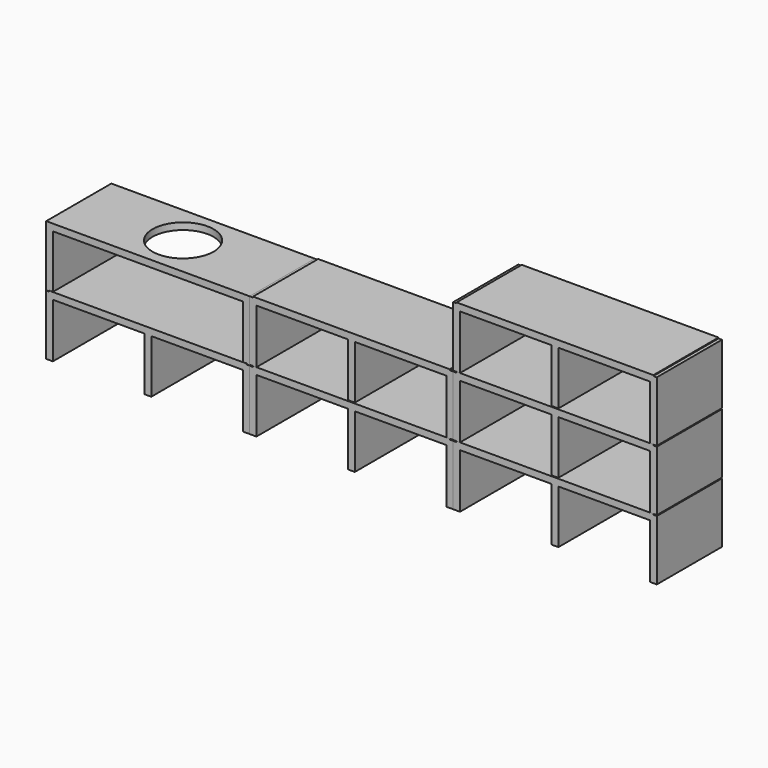
from build123d import *

# Parameters (mm, degrees)
F1_DEPTH  = 609.6
F3_DEPTH  = 609.6
F5_D      = 457.2
F5_DEPTH  = 50.8
F5_TIP    = 137.3567375097
F17_W     = 1524
F17_H     = 1371.6
F18_DEPTH = 6.35
F19_W     = 3048
F19_H     = 914.4
F20_DEPTH = 6.35


with BuildPart() as f1:
    # F0 (on Front) → F1 (new body)
    with BuildSketch(Plane.XZ):
        Polygon((-1974.6954368591, 327.3724169254), (-1974.6954368591, -123.4775830746), (-1923.8954368591, -123.4775830746), (-1923.8954368591, 282.9224169254), (-1238.0954368591, 282.9224169254), (-1238.0954368591, -117.1275830746), (-1187.2954368591, -117.1275830746), (-1187.2954368591, 282.9224169254), (-501.4954368591, 282.9224169254), (-501.4954368591, -123.4775830746), (-450.6954368591, -123.4775830746), (-450.6954368591, 327.3724169254), (-476.0954368591, 327.3724169254), (-476.0954368591, 333.7224169254), (-1949.2954368591, 333.7224169254), (-1949.2954368591, 327.3724169254), align=None)
    extrude(amount=F1_DEPTH)


with BuildPart() as f3:
    # F2 (on face) → F3 (new body)
    with BuildSketch(Plane.XZ.offset(609.6)):
        Polygon((-1985.8804941177, 988.7843820572), (-1985.8804941177, 531.5843820572), (-1960.4804941177, 531.5843820572), (-1960.4804941177, 537.9343820572), (-1935.0804941177, 537.9343820572), (-1935.0804941177, 937.9843820572), (-512.6804941177, 937.9843820572), (-512.6804941177, 537.9343820572), (-487.2804941177, 537.9343820572), (-487.2804941177, 531.5843820572), (-461.8804941177, 531.5843820572), (-461.8804941177, 988.7843820572), align=None)
    extrude(amount=-F3_DEPTH)

    # F5
    with Locations(Plane.XY.offset(988.7843820572)):
        with Locations((-1208.6282968521, -300.4201054573)):
            Hole(F5_D / 2, depth=F5_DEPTH)
            with Locations((0, 0, -(F5_DEPTH + F5_TIP / 2))):  # 118° drill point
                Cone(0, F5_D / 2, F5_TIP, mode=Mode.SUBTRACT)


with BuildPart() as f6_1:
    # F6: copy of F1
    add(f1.part)


with BuildPart() as f8_1:
    # F8: copy of F1
    add(f1.part.moved(Location((1717.04, 695.96, 78.74))))


with BuildPart() as f9_1:
    # F9: copy of F3
    add(f3.part.moved(Location((1727.2, 698.5, -127))))


with BuildPart() as f10_1:
    # F10: copy of F8_1
    add(f8_1.part.moved(Location((1524, 0, 0))))


with BuildPart() as f11_1:
    # F11: copy of F10_1
    add(f10_1.part.moved(Location((0, 0, 457.2))))


with BuildPart() as f12_1:
    # F12: copy of F10_1
    add(f10_1.part.moved(Location((1524, 0, 0))))


with BuildPart() as f12_2:
    # F12: copy of F11_1
    add(f11_1.part.moved(Location((1524, 0, 0))))


with BuildPart() as f13_1:
    # F13: copy of F12_2
    add(f12_2.part.moved(Location((0, 0, 457.2))))


with BuildPart() as f15_1:
    # F15: copy of F12_2
    add(f12_2.part.moved(Location((-1524, 0, 0))))


with BuildPart() as f18:
    # F17 (on face) → F18 (new body)
    with BuildSketch(Plane(origin=(0, 695.96, 0), x_dir=(-1, 0, 0), z_dir=(0, 1, 0))):
        with Locations((-3559.2877025604, 647.6581272662)):
            Rectangle(F17_W, F17_H)
    extrude(amount=F18_DEPTH)


with BuildPart() as f20:
    # F19 (on face) → F20 (new body)
    with BuildSketch(Plane(origin=(0, 695.96, 0), x_dir=(-1, 0, 0), z_dir=(0, 1, 0))):
        with Locations((-1266.3445631409, 406.1124169254)):
            Rectangle(F19_W, F19_H)
    extrude(amount=F20_DEPTH)


solid = Compound([f8_1.part, f9_1.part, f10_1.part, f12_1.part, f12_2.part, f13_1.part, f15_1.part])
